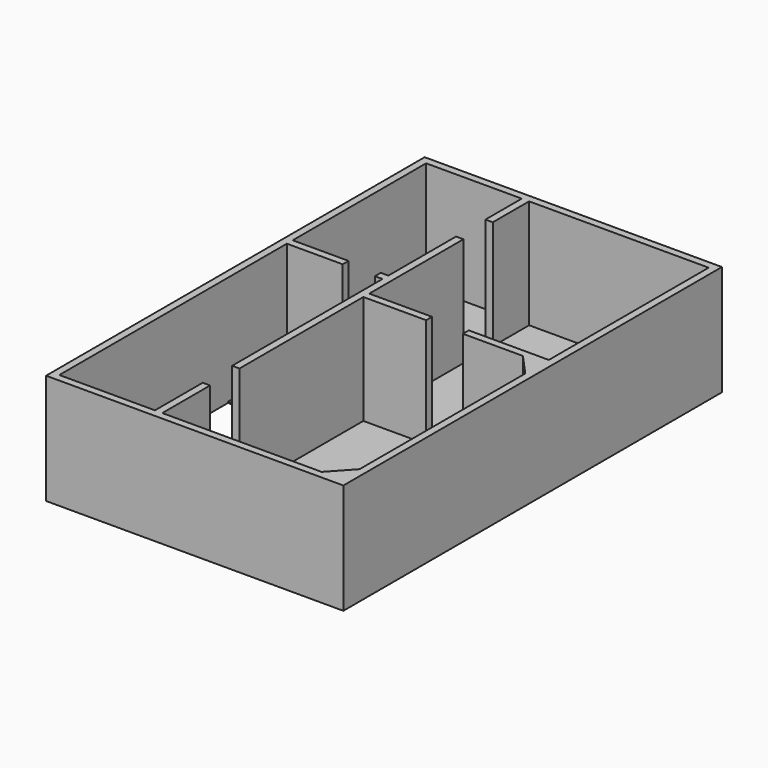
from build123d import *

# Parameters (mm, degrees)
F1_DEPTH = 2286
F2_DEPTH = 25.4


with BuildPart() as f1:
    # F0 (on Top) → F1 (new body)
    with BuildSketch(Plane.XY):
        Polygon((6007.1, -152.4), (6007.1, 0), (6007.1, 9499.6), (6007.1, 9652), (5854.7, 9652), (0, 9652), (-152.4, 9652), (-152.4, 9499.6), (-152.4, 0), (-152.4, -152.4), (0, -152.4), (5854.7, -152.4), align=None)
        Polygon((5854.7, 458.635837), (5434.252262, 0), (2133.6, 0), (2133.6, 1238.25), (1981.2, 1238.25), (1981.2, 0), (0, 0), (0, 2286), (0, 4368.8), (0, 5892.8), (1157.634497, 5892.8), (1157.634497, 6045.2), (0, 6045.2), (0, 9499.6), (1981.2, 9499.6), (1981.2, 8559.8), (2133.6, 8559.8), (2133.6, 9499.6), (5113.667921, 9499.6), (5848.350048, 9499.6), (5854.7, 9499.6), (5854.7, 5983.494282), (5854.7, 5359.4), (5848.350048, 5359.4), (4372.635841, 5359.4), (4197.35, 5359.4), (4197.35, 5207), (5439.363331, 5207), (5854.7, 4749.8), align=None, mode=Mode.SUBTRACT)
        Polygon((1981.2, 5283.2), (1981.2, 4368.8), (1981.2, 3479.8), (1981.2, 2000.25), (2133.6, 2000.25), (2133.6, 3479.8), (2133.6, 4368.8), (2133.6, 5207), (3435.35, 5207), (3435.35, 5359.4), (2133.6, 5359.4), (2133.6, 5969), (2133.6, 7797.8), (1981.2, 7797.8), (1981.2, 6045.2), (1824.832678, 6045.2), (1824.832678, 5892.8), (1981.2, 5892.8), align=None)
    extrude(amount=F1_DEPTH)


with BuildPart() as f2:
    # F0 (on Top) → F2 (new body)
    with BuildSketch(Plane.XY):
        Polygon((2133.6, 0), (5434.252262, 0), (5854.7, 458.635837), (5854.7, 4749.8), (5439.363331, 5207), (4197.35, 5207), (4197.35, 5359.4), (4372.635841, 5359.4), (4372.635841, 5983.494282), (5113.667921, 5983.494282), (5113.667921, 9499.6), (2133.6, 9499.6), (2133.6, 8559.8), (1981.2, 8559.8), (1981.2, 9499.6), (0, 9499.6), (0, 6045.2), (1157.634497, 6045.2), (1157.634497, 5892.8), (0, 5892.8), (0, 4368.8), (1981.2, 4368.8), (1981.2, 5283.2), (1981.2, 5892.8), (1824.832678, 5892.8), (1824.832678, 6045.2), (1981.2, 6045.2), (1981.2, 7797.8), (2133.6, 7797.8), (2133.6, 5969), (2133.6, 5359.4), (3435.35, 5359.4), (3435.35, 5207), (2133.6, 5207), (2133.6, 4368.8), (2133.6, 3479.8), (2133.6, 2000.25), (1981.2, 2000.25), (1981.2, 3479.8), (1016, 3479.8), (1016, 2286), (0, 2286), (0, 0), (1981.2, 0), (1981.2, 1238.25), (2133.6, 1238.25), align=None)
    extrude(amount=F2_DEPTH)


solid = Compound([f1.part, f2.part])
